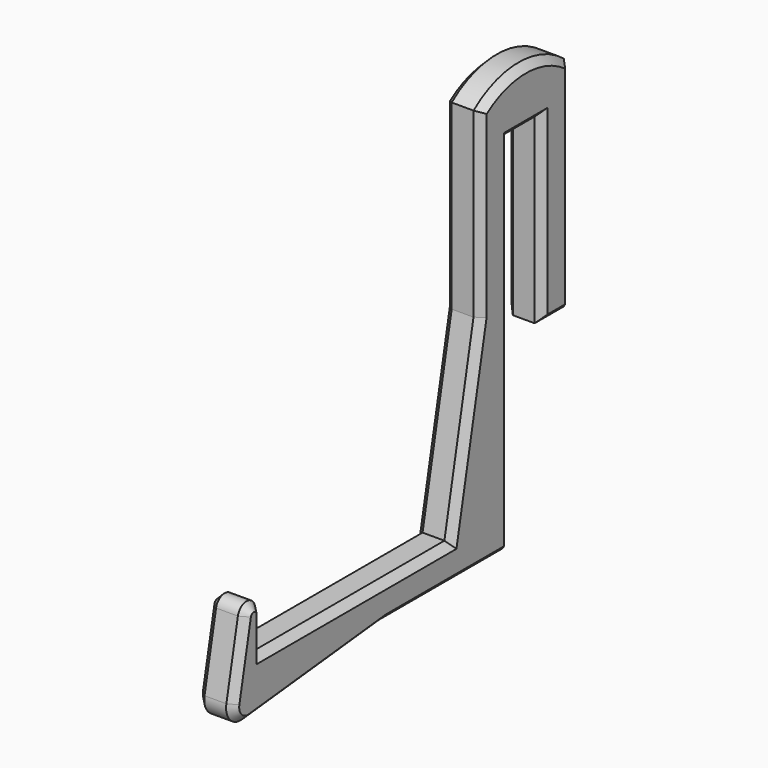
from build123d import *

# Parameters (mm, degrees)
F1_DEPTH = 10
F2_SIZE  = 2


with BuildPart() as f1:
    # F0 (on Right) → F1 (new body)
    with BuildSketch(Plane.YZ):
        with BuildLine():
            Line((-42.5, 0), (0, 0))
            Line((0, 0), (0, 100))
            Line((0, 100), (11, 100))
            Line((11, 100), (11, 50))
            Line((11, 50), (21, 50))
            Line((21, 50), (21, 110))
            ThreePointArc((21, 110), (5.5, 115.384955), (-10, 110))
            Line((-10, 110), (-10, 60))
            Line((-10, 60), (-20, 10))
            Line((-20, 10), (-85, 10))
            Line((-85, 10), (-85, 20))
            ThreePointArc((-85, 20), (-87.701489, 22.985112), (-90.940594, 20.594059))
            Line((-90.940594, 20.594059), (-94.90099, 0.990099))
            ThreePointArc((-94.90099, 0.990099), (-93.697535, -3.365745), (-89.473684, -4.972222))
            Line((-89.473684, -4.972222), (-42.5, 0))
        make_face()
    extrude(amount=F1_DEPTH)

    # F2
    f2_edges = [f1.edges().sort_by_distance(p)[0] for p in [
        (0, -93.697535, -3.365745),
        (0, -65.986842, -2.486111),
        (0, -21.25, 0),
        (0, 0, 50),
        (0, 5.5, 100),
        (0, 11, 75),
        (0, 16, 50),
        (0, 21, 80),
        (0, 5.5, 115.384955),
        (0, -10, 85),
        (0, -15, 35),
        (0, -52.5, 10),
        (0, -85, 15),
        (0, -87.701489, 22.985112),
        (0, -92.920792, 10.792079),
        (10, -93.697535, -3.365745),
        (10, -65.986842, -2.486111),
        (10, -21.25, 0),
        (10, 0, 50),
        (10, 5.5, 100),
        (10, 11, 75),
        (10, 16, 50),
        (10, 21, 80),
        (10, 5.5, 115.384955),
        (10, -10, 85),
        (10, -15, 35),
        (10, -52.5, 10),
        (10, -85, 15),
        (10, -87.701489, 22.985112),
        (10, -92.920792, 10.792079),
    ]]
    chamfer(f2_edges, length=F2_SIZE)


solid = f1.part
